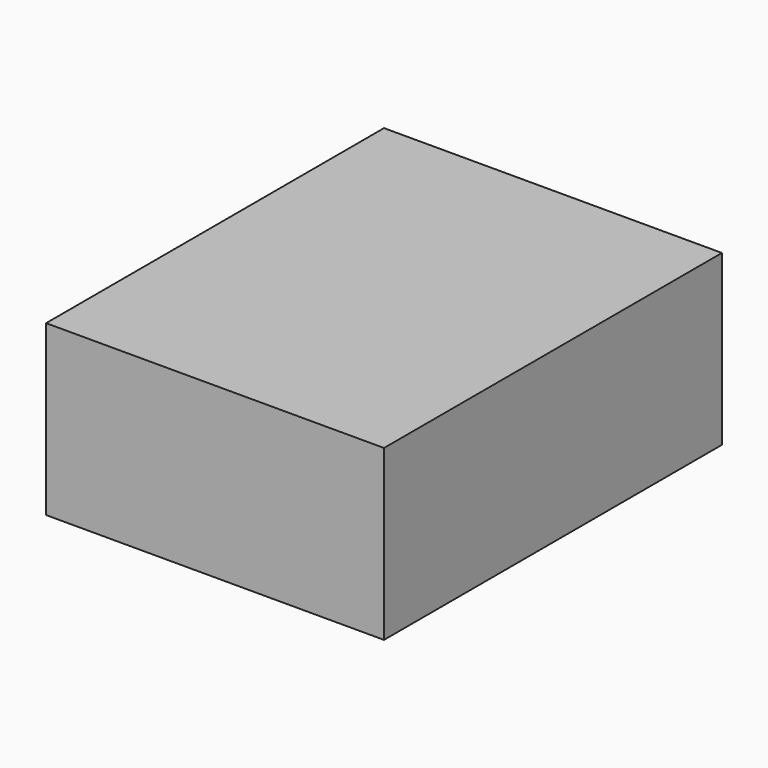
from build123d import *

# Parameters (mm, degrees)
F0_W     = 12
F0_H     = 15
F1_DEPTH = 6
F2_W     = 10.816304
F2_H     = 5.077495
F3_DEPTH = 14
F4_W     = 9.618904
F4_H     = 1.474254
F5_DEPTH = 14


with BuildPart() as f1:
    # F0 (on Top) → F1 (new body)
    with BuildSketch(Plane.XY):
        Rectangle(F0_W, F0_H)
    extrude(amount=F1_DEPTH)

    # F2 (on face) → F3 (cut)
    with BuildSketch(Plane(origin=(0, 7.5, 0), x_dir=(-1, 0, 0), z_dir=(0, 1, 0))):
        with Locations((0, 2.921203)):
            Rectangle(F2_W, F2_H)
    extrude(amount=-F3_DEPTH, mode=Mode.SUBTRACT)

    # F4 (on face) → F5 (join)
    with BuildSketch(Plane(origin=(0, -6.5, 0), x_dir=(-1, 0, 0), z_dir=(0, 1, 0))):
        with Locations((-0.038077, 4.130425)):
            Rectangle(F4_W, F4_H)
    extrude(amount=F5_DEPTH)


solid = f1.part
